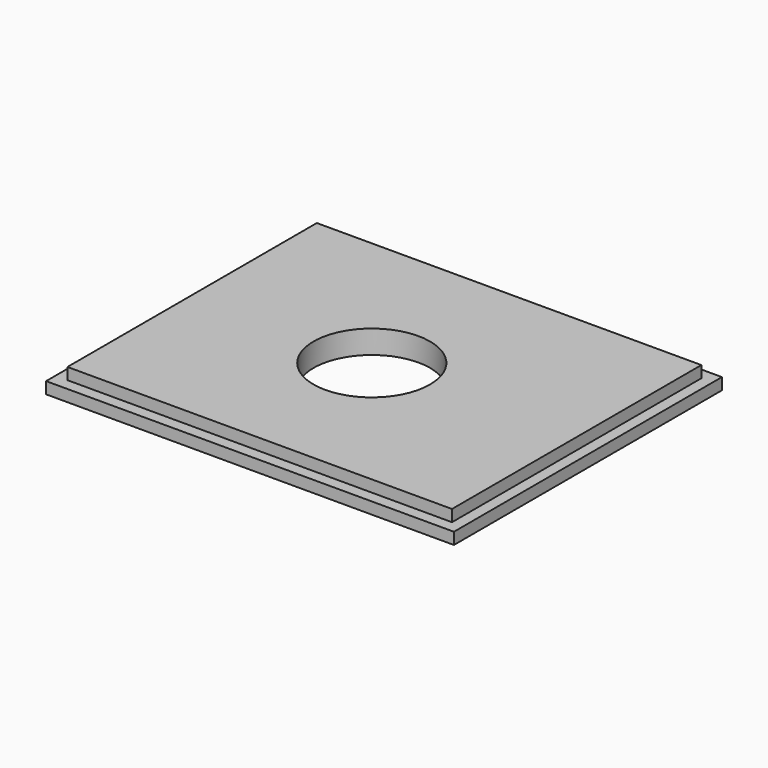
from build123d import *

# Parameters (mm, degrees)
F0_W     = 88.9
F0_H     = 73.025
F0_W_2   = 83.82
F0_H_2   = 67.945
F1_DEPTH = 2.54
F0_R     = 12.7
F2_DEPTH = 5.08


with BuildPart() as f1:
    # F0 (on Top) → F1 (new body)
    with BuildSketch(Plane.XY):
        with Locations((-26.052929, -38.132125)):
            Rectangle(F0_W, F0_H)
        with Locations((-25.966533, -38.132125)):
            Rectangle(F0_W_2, F0_H_2, mode=Mode.SUBTRACT)
    extrude(amount=F1_DEPTH)

    # F0 (on Top) → F2 (join)
    with BuildSketch(Plane.XY):
        with Locations((-25.966533, -38.132125)):
            Rectangle(F0_W_2, F0_H_2)
        with Locations((-28.340409, -38.598955)):
            Circle(F0_R, mode=Mode.SUBTRACT)
    extrude(amount=F2_DEPTH)


solid = f1.part
